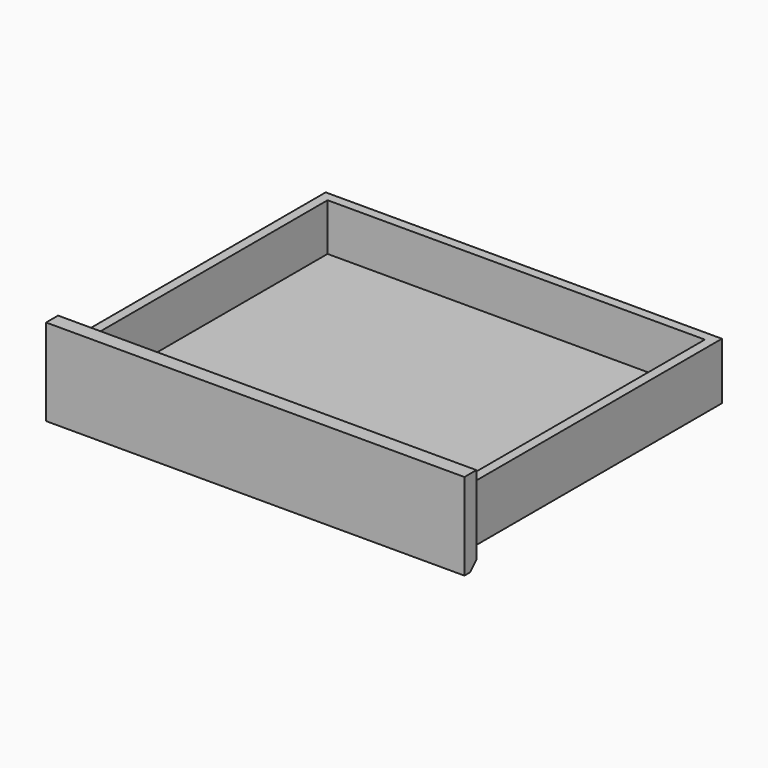
from build123d import *

# Parameters (mm, degrees)
F0_W     = 478
F0_H     = 388
F1_DEPTH = 110
F2_W     = 400
F2_H     = 19
F3_DEPTH = 502
F4_W     = 400
F4_H     = 6
F5_DEPTH = 502
F7_DEPTH = 559


with BuildPart() as f1:
    # F0 (on Top) → F1 (new body)
    with BuildSketch(Plane.XY):
        Polygon((0, 0), (0, 400), (-502, 400), (-502, 0), (-521, 0), (-521, -19), (9, -19), (9, 0), align=None)
        with Locations((-251, 194)):
            Rectangle(F0_W, F0_H, mode=Mode.SUBTRACT)
    extrude(amount=-F1_DEPTH)

    # F2 (on Right) → F3 (cut)
    with BuildSketch(Plane.YZ):
        with Locations((200, -100.5)):
            Rectangle(F2_W, F2_H)
        with Locations((200, -9.5)):
            Rectangle(F2_W, F2_H)
    extrude(amount=-F3_DEPTH, mode=Mode.SUBTRACT)

    # F4 (on Right) → F5 (join)
    with BuildSketch(Plane.YZ):
        with Locations((200, -81.88692)):
            Rectangle(F4_W, F4_H)
    extrude(amount=-F5_DEPTH)

    # F6 (on Right) → F7 (cut, symmetric)
    with BuildSketch(Plane.YZ):
        Polygon((-10, -110), (0, -110), (0, -100), align=None)
    extrude(amount=F7_DEPTH, both=True, mode=Mode.SUBTRACT)


solid = f1.part
